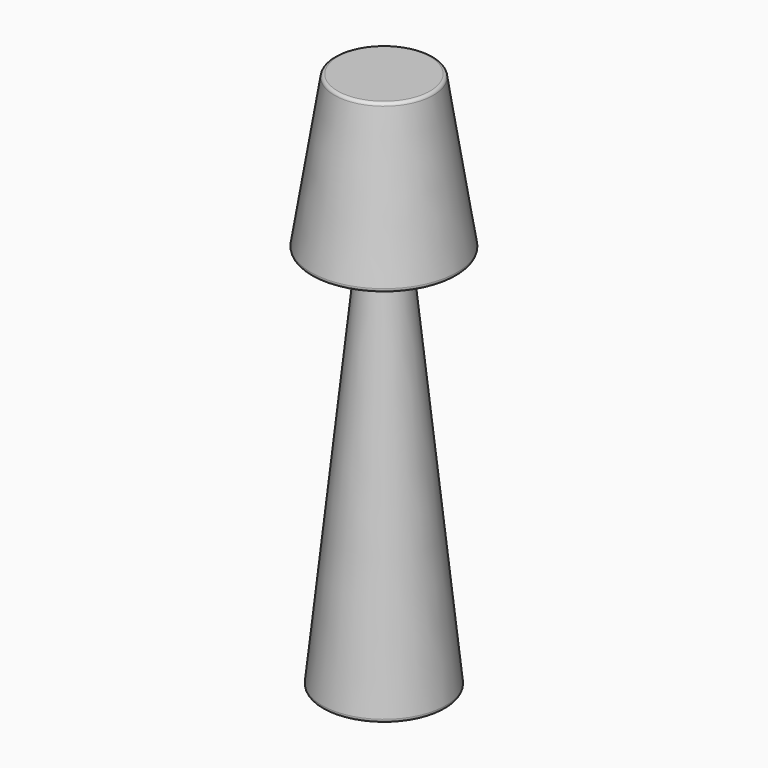
from build123d import *

# Parameters (mm, degrees)
F2_R = 10
F3_R = 30


with BuildPart() as f1:
    # F0 (on Front) → F1 (revolve)
    with BuildSketch(Plane.XZ):
        Polygon((0, 1650), (-150, 1650), (-225, 1176.468636), (-75, 1176.468636), (-69.710191, 1146.468636), (-190.2089, 0), (0, 0), align=None)
    revolve(axis=Axis((0, 0, 825), (0, 0, 1)))

    # F2
    f2_edges = [f1.edges().sort_by_distance(p)[0] for p in [
        (150, 0, 1650),
        (225, 0, 1176.468636),
        (190.2089, 0, 0),
    ]]
    fillet(f2_edges, radius=F2_R)

    # F3
    f3_edges = [f1.edges().sort_by_distance(p)[0] for p in [
        (75, 0, 1176.468636),
        (69.710191, 0, 1146.468636),
    ]]
    fillet(f3_edges, radius=F3_R)


solid = f1.part
